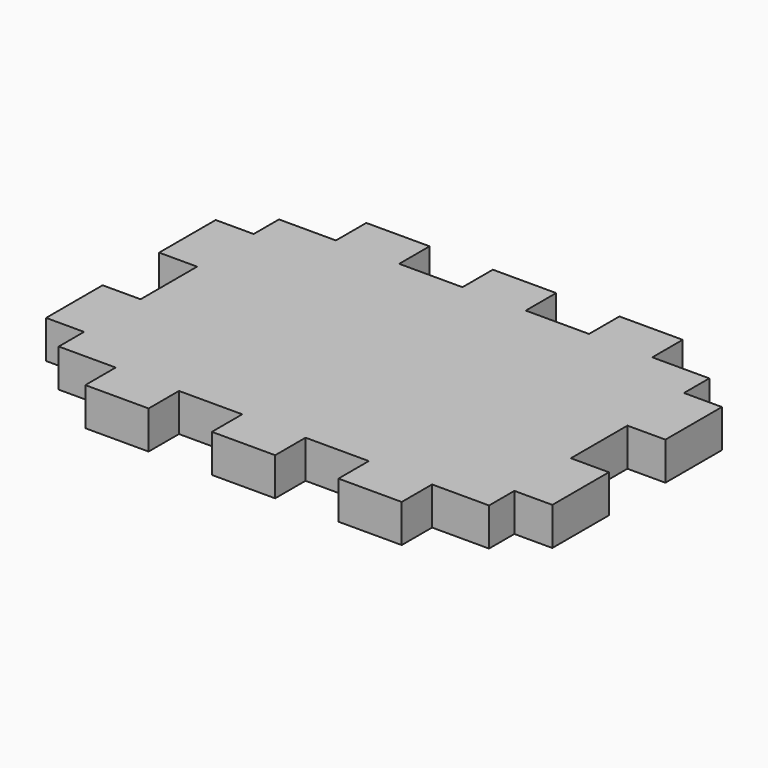
from build123d import *

# Parameters (mm, degrees)
F1_DEPTH = 7.62


with BuildPart() as f1:
    # F0 (on Top) → F1 (new body)
    with BuildSketch(Plane.XY):
        Polygon((31.75, 0), (19.05, 0), (19.05, -7.62), (7.62, -7.62), (7.62, -13.97), (0, -13.97), (0, -28.151658), (7.62, -28.151658), (7.62, -42.333316), (0, -42.333316), (0, -56.514975), (7.62, -56.514975), (7.62, -62.864975), (19.05, -62.864975), (19.05, -70.484975), (31.75, -70.484975), (31.75, -62.864975), (44.45, -62.864975), (44.45, -70.484975), (57.15, -70.484975), (57.15, -62.864975), (69.85, -62.864975), (69.85, -70.484975), (82.55, -70.484975), (82.55, -62.864975), (93.98, -62.864975), (93.98, -56.514975), (101.6, -56.514975), (101.6, -42.333316), (93.98, -42.333316), (93.98, -28.151658), (101.6, -28.151658), (101.6, -13.97), (93.98, -13.97), (93.98, -7.62), (82.55, -7.62), (82.55, 0), (69.85, 0), (69.85, -7.62), (57.15, -7.62), (57.15, 0), (44.45, 0), (44.45, -7.62), (31.75, -7.62), align=None)
    extrude(amount=F1_DEPTH)


solid = f1.part
